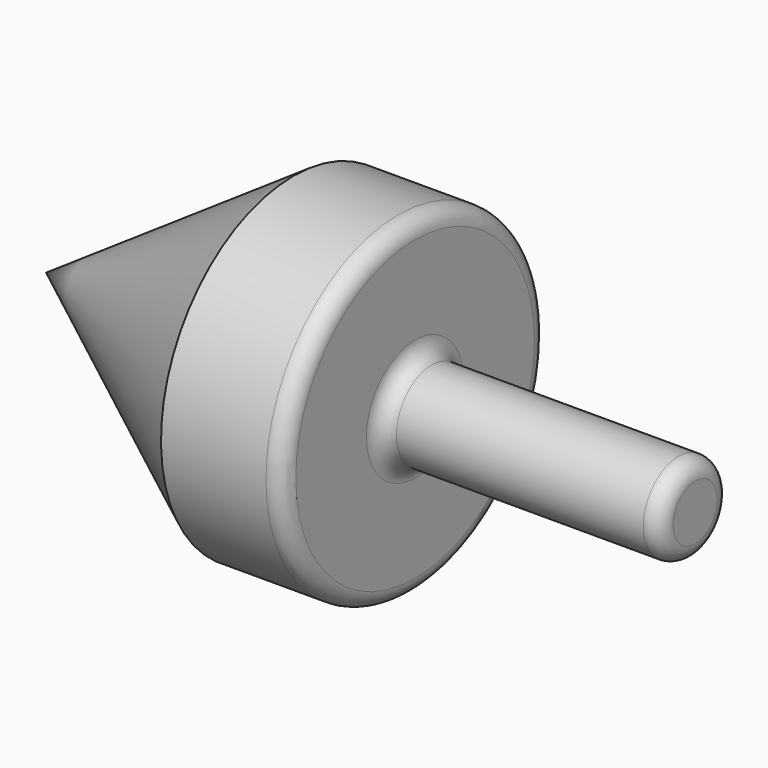
from build123d import *


with BuildPart() as f1:
    # F0 (on Front) → F1 (revolve)
    with BuildSketch(Plane.XZ):
        with BuildLine():
            Line((-595.785748, 0), (579.214252, 0))
            Line((579.214252, 0), (579.214252, 50))
            ThreePointArc((579.214252, 50), (570.427456, 71.213203), (549.214252, 80))
            Line((549.214252, 80), (102.214252, 80))
            ThreePointArc((102.214252, 80), (81.001049, 88.786797), (72.214252, 110))
            Line((72.214252, 110), (72.214252, 270))
            ThreePointArc((72.214252, 270), (63.427456, 291.213203), (42.214252, 300))
            Line((42.214252, 300), (-147.785748, 300))
            Line((-147.785748, 300), (-595.785748, 0))
        make_face()
    revolve(axis=Axis((-8.285748, 0, 0), (-1, 0, 0)))


solid = f1.part
